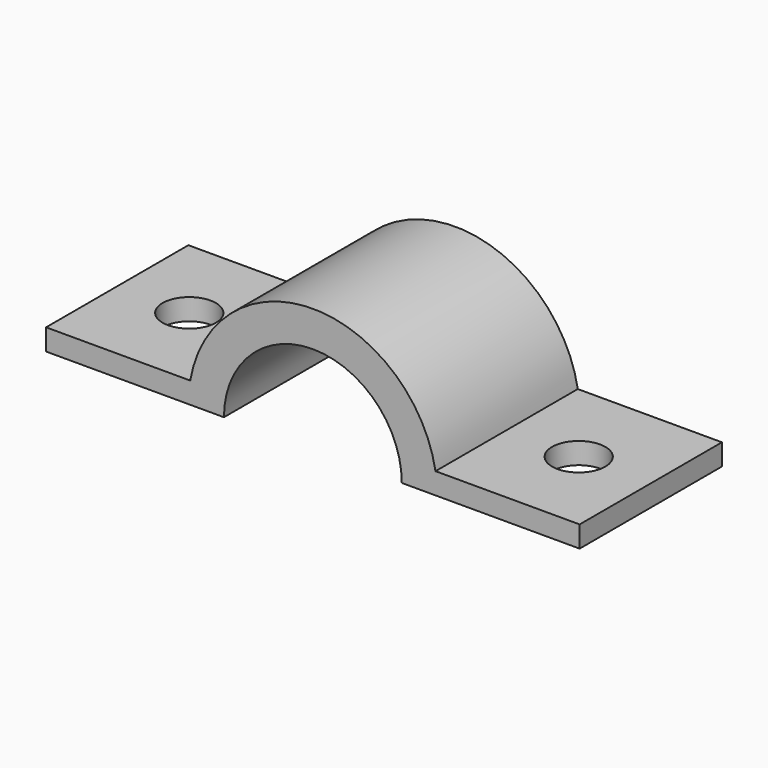
from build123d import *

# Parameters (mm, degrees)
F1_DEPTH = 25
F3_D     = 7.5
F4_D     = 7.5


with BuildPart() as f1:
    # F0 (on Front) → F1 (new body)
    with BuildSketch(Plane.XZ):
        with BuildLine():
            ThreePointArc((-12.5, 0), (0, 12.5), (12.5, 0))
            Line((12.5, 0), (17.5, 0))
            Line((17.5, 0), (37.5, 0))
            Line((37.5, 0), (37.5, 3))
            Line((37.5, 3), (17.24094, 3))
            ThreePointArc((17.24094, 3), (0, 17.5), (-17.24094, 3))
            Line((-17.24094, 3), (-37.5, 3))
            Line((-37.5, 3), (-37.5, 0))
            Line((-37.5, 0), (-17.5, 0))
            Line((-17.5, 0), (-12.5, 0))
        make_face()
    extrude(amount=F1_DEPTH)

    # F3 (through all)
    with Locations(Plane.XY.offset(3)):
        with Locations((-27.37047, -12.5)):
            Hole(F3_D / 2)

    # F4 (through all)
    with Locations(Plane.XY.offset(3)):
        with Locations((27.37047, -12.5)):
            Hole(F4_D / 2)


solid = f1.part
